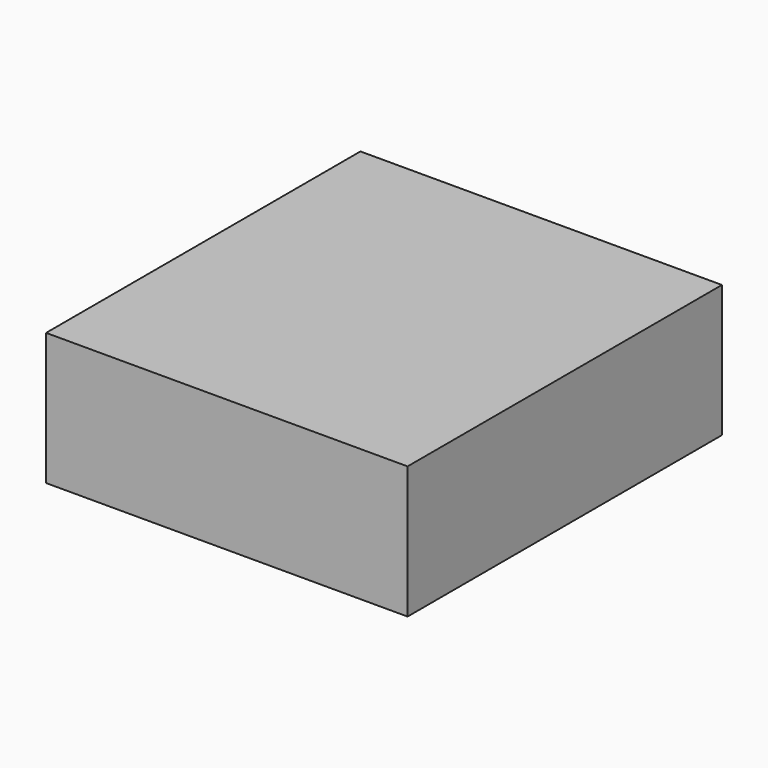
from build123d import *

# Parameters (mm, degrees)
F1_W     = 68.349058
F1_H     = 74.292458
F2_DEPTH = 25


with BuildPart() as f2:
    # F1 (on face) → F2 (new body)
    with BuildSketch(Plane.XY):
        with Locations((4.333726, -3.838446)):
            Rectangle(F1_W, F1_H)
    extrude(amount=F2_DEPTH)


solid = f2.part
